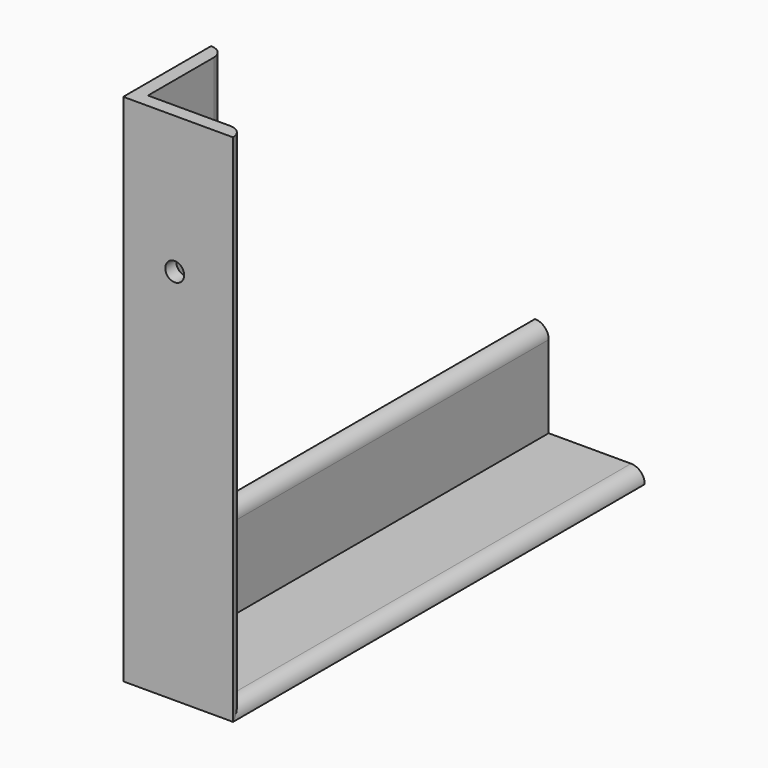
from build123d import *

# Parameters (mm, degrees)
PAD001_DEPTH = 150
PAD002_DEPTH = 150
SKETCH011_R  = 2.75
POCKET_DEPTH = 150.001


with BuildPart() as part:
    # Sketch001 → Pad001 (new body)
    with BuildSketch(Plane.XY):
        with BuildLine():
            Line((0, 32), (0, 0))
            Line((0, 0), (32, 0))
            ThreePointArc((32, 0), (30.828427, 2.828427), (28, 4))
            Line((28, 4), (4, 4))
            Line((4, 28), (4, 4))
            ThreePointArc((4, 28), (2.828427, 30.828427), (0, 32))
        make_face()
    extrude(amount=PAD001_DEPTH)

    # Sketch002 (on Face3 of Pad001) → Pad002 (new body)
    with BuildSketch(Plane.XZ):
        with BuildLine():
            Line((0, 32), (0, 0))
            Line((0, 0), (32, 0))
            ThreePointArc((32, 0), (30.828427, 2.828427), (28, 4))
            Line((28, 4), (4, 4))
            Line((4, 4), (4, 28))
            ThreePointArc((4, 28), (2.828427, 30.828427), (0, 32))
        make_face()
    extrude(amount=-PAD002_DEPTH)

    # Sketch011 (on Face9 of Pad002) → Pocket (cut, through all)
    with BuildSketch(Plane.XZ):
        with Locations((15, 110)):
            Circle(SKETCH011_R)
    extrude(amount=-POCKET_DEPTH, mode=Mode.SUBTRACT)


solid = part.part
